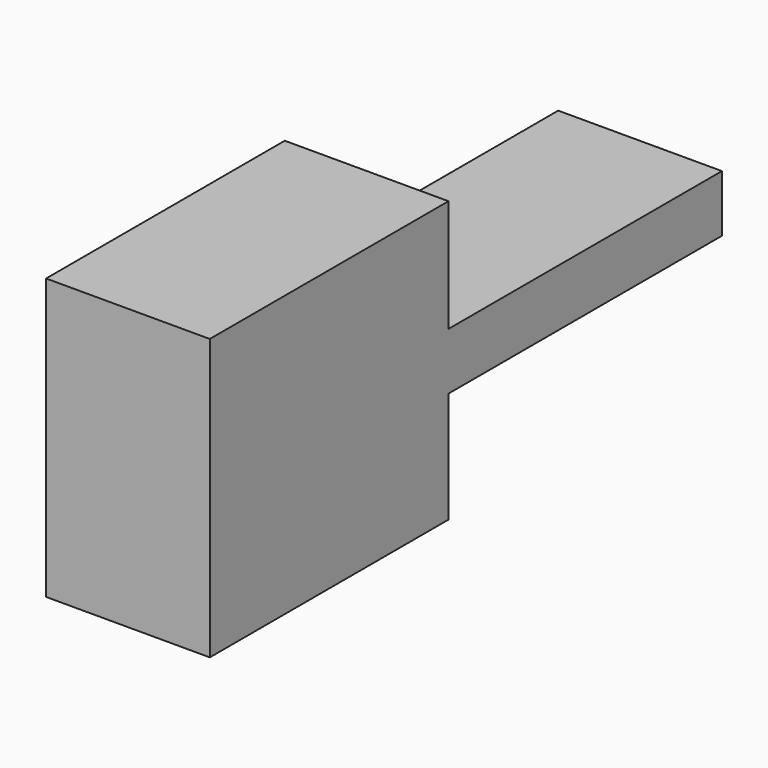
from build123d import *

# Parameters (mm, degrees)
F0_W     = 53.029888
F0_H     = 8.838314
F1_DEPTH = 25.4


with BuildPart() as f1:
    # F0 (on Right) → F1 (new body)
    with BuildSketch(Plane.YZ):
        Polygon((-23.142427, 21.746906), (-23.142427, -21.746906), (23.142427, -21.746906), (23.142427, -4.535451), (23.142427, 4.302863), (23.142427, 21.746906), align=None)
        with Locations((49.657371, -0.116294)):
            Rectangle(F0_W, F0_H)
    extrude(amount=F1_DEPTH)


solid = f1.part
